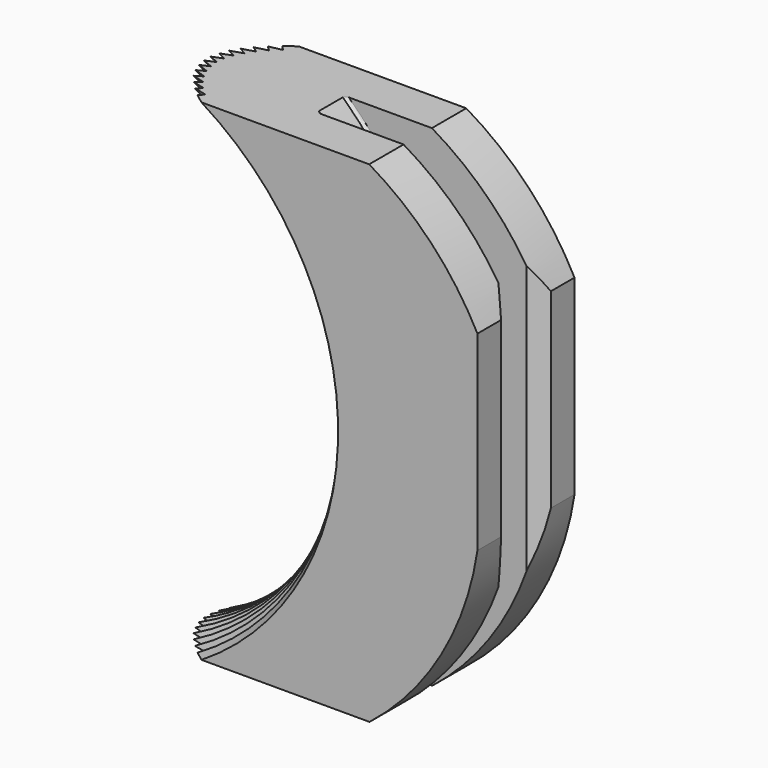
from build123d import *

# Parameters (mm, degrees)
F1_DEPTH = 2.8702
F3_DEPTH = 0.8382
F4_R     = 0.127
F7_SIZE  = 0.635


with BuildPart() as f1:
    # F0 (on Front) → F1 (new body, symmetric)
    with BuildSketch(Plane.XZ):
        with BuildLine():
            Line((10.935379, 11.6078), (0.964201, 11.6078))
            ThreePointArc((0.964201, 11.6078), (8.511631, 0), (0.964201, -11.6078))
            Line((0.964201, -11.6078), (10.951463, -11.6078))
            ThreePointArc((10.951463, -11.6078), (14.342647, -7.694951), (16.055431, -2.808553))
            Line((16.055431, -2.808553), (16.055431, 6.221704))
            ThreePointArc((16.055431, 6.221704), (13.874424, 9.275049), (10.935379, 11.6078))
        make_face()
    extrude(amount=F1_DEPTH, both=True)

    # F2 (on Front) → F3 (cut, symmetric)
    with BuildSketch(Plane.XZ):
        with BuildLine():
            ThreePointArc((6.826302, 11.6078), (11.813631, 0), (6.826302, -11.6078))
            Line((6.826302, -11.6078), (10.951463, -11.6078))
            ThreePointArc((10.951463, -11.6078), (14.342647, -7.694951), (16.055431, -2.808553))
            Line((16.055431, -2.808553), (16.055431, 6.221704))
            ThreePointArc((16.055431, 6.221704), (13.874424, 9.275049), (10.935379, 11.6078))
            Line((10.935379, 11.6078), (6.826302, 11.6078))
        make_face()
    extrude(amount=F3_DEPTH, both=True, mode=Mode.SUBTRACT)

    # F4
    f4_edges = [f1.edges().sort_by_distance(p)[0] for p in [
        (11.813631, 0.8382, 0),
        (11.813631, -0.8382, 0),
    ]]
    fillet(f4_edges, radius=F4_R)

    # F5 (on Top) → F6 (revolve, cut)
    with BuildSketch(Plane.XY):
        with BuildLine():
            Line((9.46572, 2.8702), (0.964201, 2.8702))
            Line((0.964201, 2.8702), (0.964201, -2.8702))
            Line((0.964201, -2.8702), (9.46572, -2.8702))
            ThreePointArc((9.46572, -2.8702), (9.339917, -2.69481), (9.222168, -2.513915))
            ThreePointArc((9.222168, -2.513915), (9.116906, -2.335376), (9.01949, -2.152438))
            ThreePointArc((9.01949, -2.152438), (8.930418, -1.966139), (8.849484, -1.776164))
            ThreePointArc((8.849484, -1.776164), (8.777234, -1.583993), (8.713312, -1.388894))
            ThreePointArc((8.713312, -1.388894), (8.658256, -1.192864), (8.611607, -0.994664))
            ThreePointArc((8.611607, -0.994664), (8.573786, -0.796647), (8.544357, -0.59721))
            ThreePointArc((8.544357, -0.59721), (8.52352, -0.398479), (8.511016, -0.19905))
            ThreePointArc((8.511016, -0.19905), (8.506865, 0), (8.511016, 0.19905))
            ThreePointArc((8.511016, 0.19905), (8.52352, 0.398479), (8.544357, 0.59721))
            ThreePointArc((8.544357, 0.59721), (8.573786, 0.796647), (8.611607, 0.994664))
            ThreePointArc((8.611607, 0.994664), (8.658256, 1.192864), (8.713312, 1.388894))
            ThreePointArc((8.713312, 1.388894), (8.777234, 1.583993), (8.849484, 1.776164))
            ThreePointArc((8.849484, 1.776164), (8.930418, 1.966139), (9.01949, 2.152438))
            ThreePointArc((9.01949, 2.152438), (9.116906, 2.335376), (9.222168, 2.513915))
            ThreePointArc((9.222168, 2.513915), (9.339917, 2.69481), (9.46572, 2.8702))
        make_face()
        with BuildLine():
            Line((9.322597, 2.286), (9.222168, 2.513915))
            ThreePointArc((9.222168, 2.513915), (9.116906, 2.335376), (9.01949, 2.152438))
            Line((9.01949, 2.152438), (9.322597, 2.286))
        make_face()
        with BuildLine():
            Line((9.138426, 1.932211), (9.01949, 2.152438))
            ThreePointArc((9.01949, 2.152438), (8.930418, 1.966139), (8.849484, 1.776164))
            Line((8.849484, 1.776164), (9.138426, 1.932211))
        make_face()
        with BuildLine():
            ThreePointArc((9.01949, -2.152438), (9.116906, -2.335376), (9.222168, -2.513915))
            Line((9.222168, -2.513915), (9.322597, -2.286))
            Line((9.322597, -2.286), (9.01949, -2.152438))
        make_face()
        with BuildLine():
            Line((8.985791, 1.563716), (8.849484, 1.776164))
            ThreePointArc((8.849484, 1.776164), (8.777234, 1.583993), (8.713312, 1.388894))
            Line((8.713312, 1.388894), (8.985791, 1.563716))
        make_face()
        with BuildLine():
            ThreePointArc((8.849484, -1.776164), (8.930418, -1.966139), (9.01949, -2.152438))
            Line((9.01949, -2.152438), (9.138426, -1.932211))
            Line((9.138426, -1.932211), (8.849484, -1.776164))
        make_face()
        with BuildLine():
            Line((8.865852, 1.183321), (8.713312, 1.388894))
            ThreePointArc((8.713312, 1.388894), (8.658256, 1.192864), (8.611607, 0.994664))
            Line((8.611607, 0.994664), (8.865852, 1.183321))
        make_face()
        with BuildLine():
            ThreePointArc((8.713312, -1.388894), (8.777234, -1.583993), (8.849484, -1.776164))
            Line((8.849484, -1.776164), (8.985791, -1.563716))
            Line((8.985791, -1.563716), (8.713312, -1.388894))
        make_face()
        with BuildLine():
            Line((8.779524, 0.793919), (8.611607, 0.994664))
            ThreePointArc((8.611607, 0.994664), (8.573786, 0.796647), (8.544357, 0.59721))
            Line((8.544357, 0.59721), (8.779524, 0.793919))
        make_face()
        with BuildLine():
            ThreePointArc((8.611607, -0.994664), (8.658256, -1.192864), (8.713312, -1.388894))
            Line((8.713312, -1.388894), (8.865852, -1.183321))
            Line((8.865852, -1.183321), (8.611607, -0.994664))
        make_face()
        with BuildLine():
            Line((8.727463, 0.398476), (8.544357, 0.59721))
            ThreePointArc((8.544357, 0.59721), (8.52352, 0.398479), (8.511016, 0.19905))
            Line((8.511016, 0.19905), (8.727463, 0.398476))
        make_face()
        with BuildLine():
            ThreePointArc((8.544357, -0.59721), (8.573786, -0.796647), (8.611607, -0.994664))
            Line((8.611607, -0.994664), (8.779524, -0.793919))
            Line((8.779524, -0.793919), (8.544357, -0.59721))
        make_face()
        with BuildLine():
            Line((8.710065, 0), (8.511016, 0.19905))
            ThreePointArc((8.511016, 0.19905), (8.506865, 0), (8.511016, -0.19905))
            Line((8.511016, -0.19905), (8.710065, 0))
        make_face()
        with BuildLine():
            ThreePointArc((8.511016, -0.19905), (8.52352, -0.398479), (8.544357, -0.59721))
            Line((8.544357, -0.59721), (8.727463, -0.398476))
            Line((8.727463, -0.398476), (8.511016, -0.19905))
        make_face()
    revolve(axis=Axis((-4.188369, -0.221392, 0), (0, -1, 0)), mode=Mode.SUBTRACT)

    # F7
    f7_edges = [f1.edges().sort_by_distance(p)[0] for p in [
        (16.055431, -0.8382, 1.706576),
        (16.055431, 0.8382, 1.706576),
    ]]
    chamfer(f7_edges, length=F7_SIZE)


solid = f1.part
